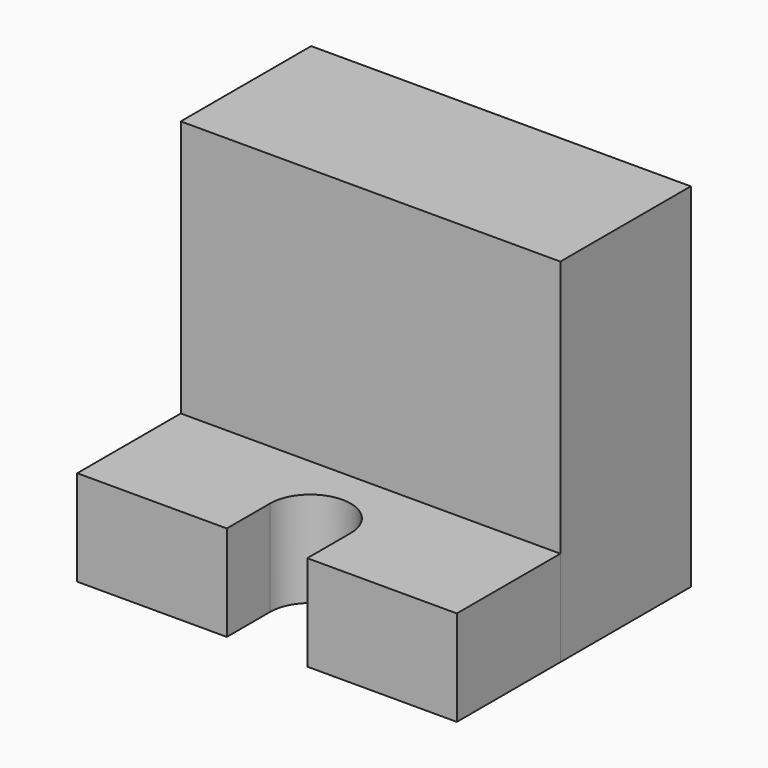
from build123d import *

# Parameters (mm, degrees)
F0_W     = 94.6328788996
F0_H     = 87.9169851542
F1_DEPTH = 20.32
F2_W     = 94.6328788996
F2_H     = 23.8108485937
F3_DEPTH = 32.258
F5_DEPTH = 23.8118485937


with BuildPart() as f1:
    # F0 (on Front) → F1 (new body, symmetric)
    with BuildSketch(Plane.XZ):
        Rectangle(F0_W, F0_H)
    extrude(amount=F1_DEPTH, both=True)


with BuildPart() as f3:
    # F2 (on face) → F3 (new body)
    with BuildSketch(Plane.XZ.offset(20.32)):
        with Locations((0, -32.0530682802)):
            Rectangle(F2_W, F2_H)
    extrude(amount=F3_DEPTH)

    # F4 (on face) → F5 (cut, through all)
    with BuildSketch(Plane.XY.offset(-20.1476439834)):
        with BuildLine():
            ThreePointArc((-10.0314961746, -39.0740061632), (0, -49.1055023379), (10.0314961746, -39.0740061632))
            ThreePointArc((10.0314961746, -39.0740061632), (0, -29.0425099886), (-10.0314961746, -39.0740061632))
        make_face()
        with BuildLine():
            Line((10.0314961746, -52.578), (10.0314961746, -39.0740061632))
            ThreePointArc((10.0314961746, -39.0740061632), (0, -49.1055023379), (-10.0314961746, -39.0740061632))
            Line((-10.0314961746, -39.0740061632), (-10.0314961746, -52.578))
            Line((-10.0314961746, -52.578), (10.0314961746, -52.578))
        make_face()
    extrude(amount=-F5_DEPTH, mode=Mode.SUBTRACT)


solid = Compound([f1.part, f3.part])
